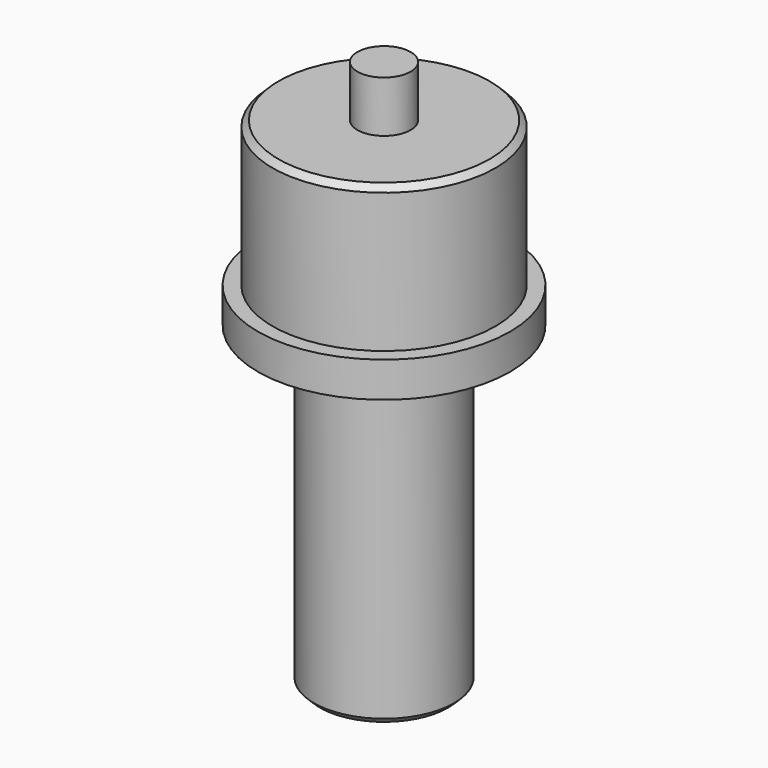
from build123d import *

# Parameters (mm, degrees)
F0_R     = 5.35
F1_DEPTH = 1.5
F2_R     = 4.73
F3_DEPTH = 6.16
F4_R     = 2.97
F5_DEPTH = 13.4
F6_R     = 1.13
F7_DEPTH = 2.18
F8_SIZE  = 0.25
F9_SIZE  = 0.25


with BuildPart() as f1:
    # F0 (on Top) → F1 (new body)
    with BuildSketch(Plane.XY):
        Circle(F0_R)
    extrude(amount=F1_DEPTH)

    # F2 (on face) → F3 (join)
    with BuildSketch(Plane.XY.offset(1.5)):
        Circle(F2_R)
    extrude(amount=F3_DEPTH)

    # F4 (on face) → F5 (join)
    with BuildSketch(Plane(origin=(0, 0, 0), x_dir=(1, 0, 0), z_dir=(0, 0, -1))):
        Circle(F4_R)
    extrude(amount=F5_DEPTH)

    # F6 (on face) → F7 (join)
    with BuildSketch(Plane.XY.offset(7.66)):
        Circle(F6_R)
    extrude(amount=F7_DEPTH)

    # F8
    f8_edges = [f1.edges().sort_by_distance(p)[0] for p in [
        (-4.73, 0, 7.66),
    ]]
    chamfer(f8_edges, length=F8_SIZE)

    # F9
    f9_edges = [f1.edges().sort_by_distance(p)[0] for p in [
        (-2.97, 0, -13.4),
    ]]
    chamfer(f9_edges, length=F9_SIZE)


solid = f1.part
